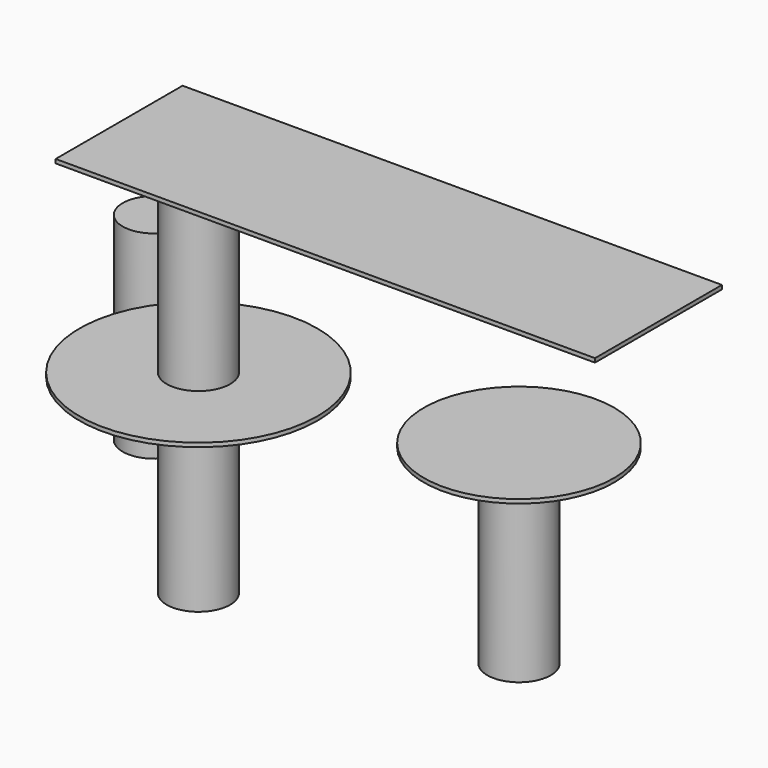
from build123d import *

# Parameters (mm, degrees)
F0_R      = 50.8
F1_DEPTH  = 304.8
F2_R      = 152.4
F3_DEPTH  = 6.35
F4_R      = 50.8
F5_DEPTH  = 304.8
F6_R      = 190.5
F7_DEPTH  = 6.35
F8_R      = 50.8
F9_DEPTH  = 304.8
F10_W     = 254
F10_H     = 254
F11_DEPTH = 6.35
F12_W     = 254
F12_H     = 6.35
F13_DEPTH = 609.6
F14_R     = 50.8
F15_DEPTH = 317.5


with BuildPart() as f1:
    # F0 (on Top) → F1 (new body)
    with BuildSketch(Plane.XY):
        Circle(F0_R)
    extrude(amount=F1_DEPTH)

    # F2 (on face) → F3 (join)
    with BuildSketch(Plane.XY.offset(304.8)):
        Circle(F2_R)
    extrude(amount=F3_DEPTH)


with BuildPart() as f5:
    # F4 (on Top) → F5 (new body)
    with BuildSketch(Plane.XY):
        with Locations((-432.2370886803, -101.3549640775)):
            Circle(F4_R)
    extrude(amount=F5_DEPTH)

    # F6 (on face) → F7 (join)
    with BuildSketch(Plane.XY.offset(304.8)):
        with Locations((-432.2370886803, -101.3549640775)):
            Circle(F6_R)
    extrude(amount=F7_DEPTH)

    # F8 (on face) → F9 (join)
    with BuildSketch(Plane.XY.offset(311.15)):
        with Locations((-432.2370886803, -101.3549640775)):
            Circle(F8_R)
    extrude(amount=F9_DEPTH)

    # F10 (on face) → F11 (join)
    with BuildSketch(Plane.XY.offset(615.95)):
        with Locations((-432.2370886803, -101.3549640775)):
            Rectangle(F10_W, F10_H)
    extrude(amount=F11_DEPTH)

    # F12 (on face) → F13 (join)
    with BuildSketch(Plane.YZ.offset(-305.2370886803)):
        with Locations((-101.3549640775, 619.125)):
            Rectangle(F12_W, F12_H)
    extrude(amount=F13_DEPTH)


with BuildPart() as f15:
    # F14 (on Top) → F15 (new body)
    with BuildSketch(Plane.XY):
        with Locations((-734.1644763947, 187.8988742828)):
            Circle(F14_R)
    extrude(amount=F15_DEPTH)


solid = Compound([f1.part, f5.part, f15.part])
